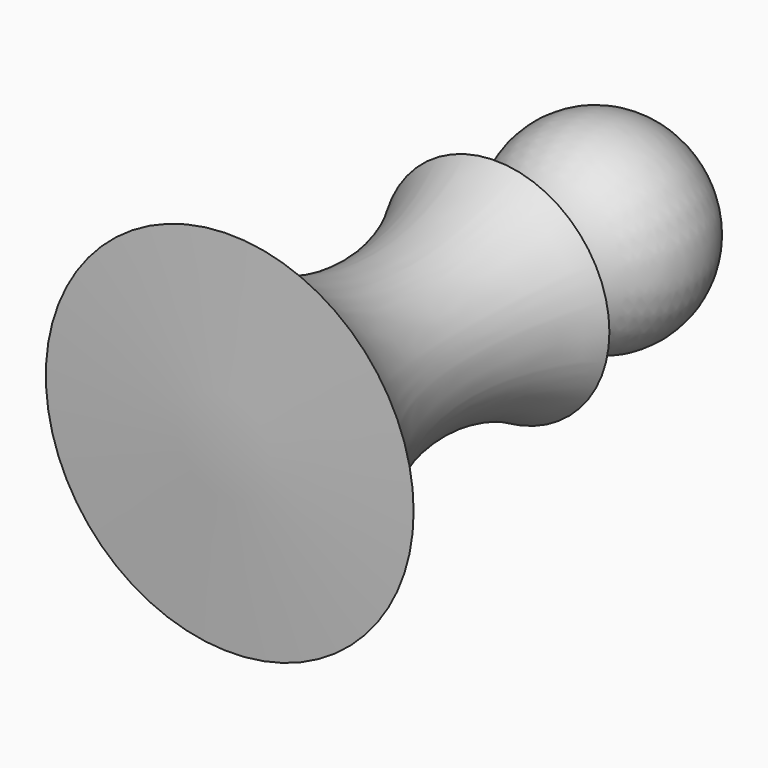
from build123d import *


with BuildPart() as f1:
    # F0 (on Top) → F1 (revolve)
    with BuildSketch(Plane.XY):
        with BuildLine():
            Line((0, 17.444041), (0, -57.449039))
            Line((0, -57.449039), (36.051016, -55.820931))
            ThreePointArc((36.051016, -55.820931), (16.555866, -25.920849), (22.328373, 9.303489))
            ThreePointArc((22.328373, 9.303489), (12.89763, 10.110432), (9.270202, 18.852963))
            ThreePointArc((9.270202, 18.852963), (4.732792, 17.505729), (0, 17.444041))
        make_face()
        with BuildLine():
            Line((0, 51.63436), (0, 17.444041))
            ThreePointArc((0, 17.444041), (4.732792, 17.505729), (9.270202, 18.852963))
            ThreePointArc((9.270202, 18.852963), (18.722901, 39.227529), (0, 51.63436))
        make_face()
    revolve(axis=Axis((0, -2.907339, 0), (0, 1, 0)))


solid = f1.part
